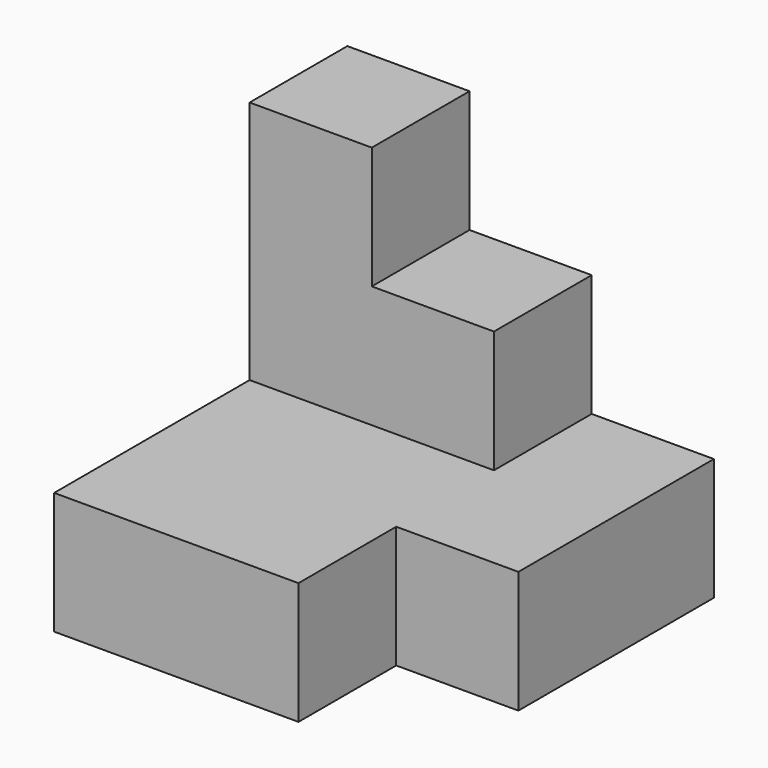
from build123d import *

# Parameters (mm, degrees)
BOX002_W     = 10
BOX002_H     = 10
BOX002_DEPTH = 10
BOX003_W     = 20
BOX003_H     = 10
BOX003_DEPTH = 10
BOX004_W     = 10
BOX004_H     = 20
BOX004_DEPTH = 10
BOX_W        = 20
BOX_H        = 30
BOX_DEPTH    = 10


with BuildPart() as cubo002:
    # Box002 → Box002 (new body)
    with BuildSketch(Plane(origin=(0, 20, 20), x_dir=(1, 0, 0), z_dir=(0, 0, 1))):
        with Locations((5, 5)):
            Rectangle(BOX002_W, BOX002_H)
    extrude(amount=BOX002_DEPTH)


with BuildPart() as cubo003:
    # Box003 → Box003 (new body)
    with BuildSketch(Plane(origin=(0, 20, 10), x_dir=(1, 0, 0), z_dir=(0, 0, 1))):
        with Locations((10, 5)):
            Rectangle(BOX003_W, BOX003_H)
    extrude(amount=BOX003_DEPTH)


with BuildPart() as cubo004:
    # Box004 → Box004 (new body)
    with BuildSketch(Plane(origin=(20, 10, 0), x_dir=(1, 0, 0), z_dir=(0, 0, 1))):
        with Locations((5, 10)):
            Rectangle(BOX004_W, BOX004_H)
    extrude(amount=BOX004_DEPTH)


with BuildPart() as fusion:
    # Box → Box (new body)
    with BuildSketch(Plane.XY):
        with Locations((10, 15)):
            Rectangle(BOX_W, BOX_H)
    extrude(amount=BOX_DEPTH)

    # Fusion: union Cubo002, Cubo003, Cubo004
    add(cubo002.part)
    add(cubo003.part)
    add(cubo004.part)


solid = fusion.part
